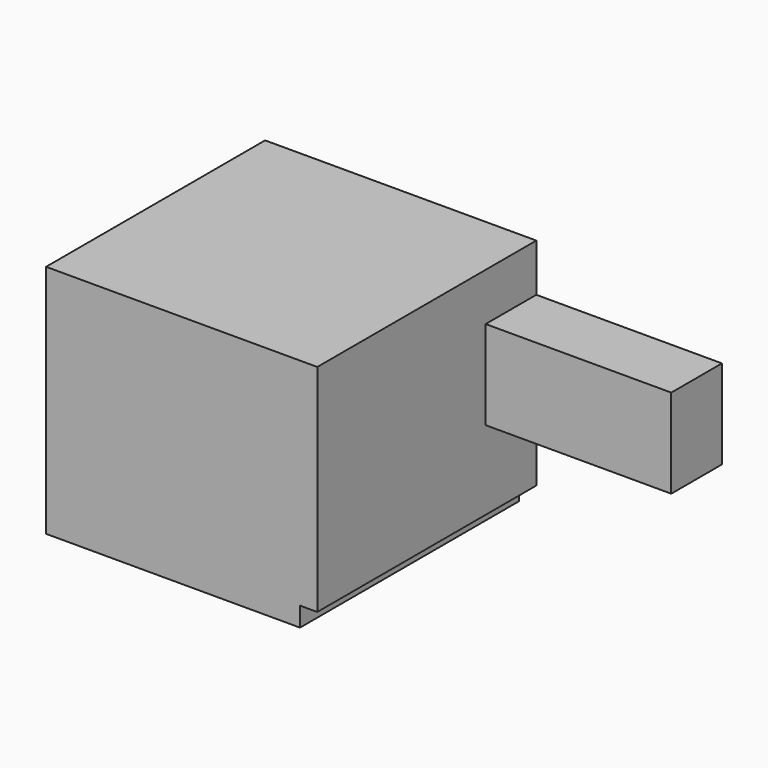
from build123d import *

# Parameters (mm, degrees)
F0_W     = 77.10462
F0_H     = 35.696581
F1_DEPTH = 25.4
F4_DEPTH = 109.789906


with BuildPart() as f1:
    # F0 (on Front) → F1 (new body)
    with BuildSketch(Plane.XZ):
        with Locations((-2.284579, 38.12395)):
            Rectangle(F0_W, F0_H)
    extrude(amount=F1_DEPTH)

    # F3 (on face) → F4 (join)
    with BuildSketch(Plane.XZ):
        Polygon((-146.92077, -19.15716), (-45.091689, -19.15716), (-45.091689, -11.375816), (-38.160954, -11.375816), (-38.160954, 75.124502), (-146.92077, 75.124502), align=None)
    extrude(amount=F4_DEPTH)


solid = f1.part
